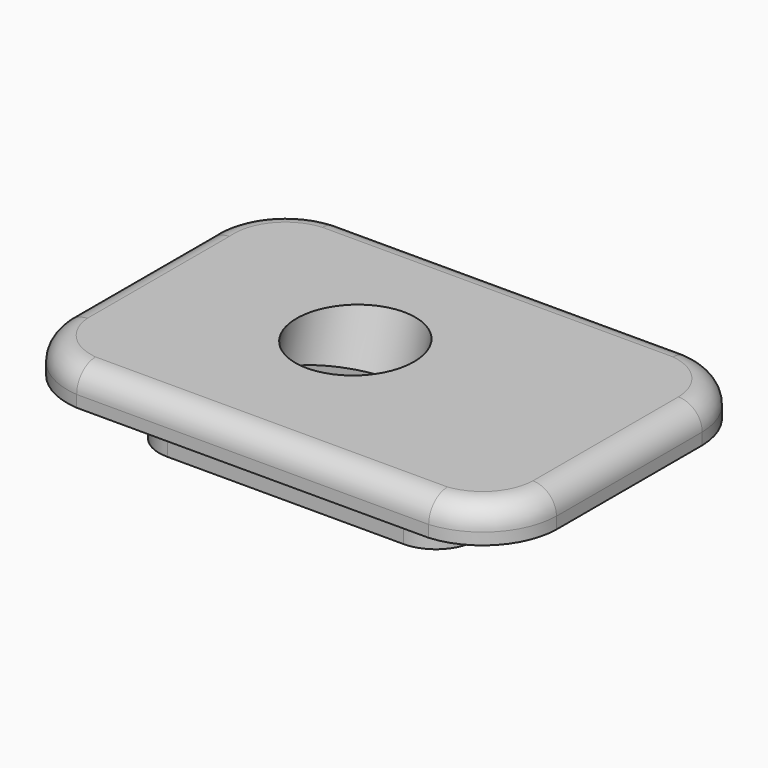
from build123d import *

# Parameters (mm, degrees)
PAD008_DEPTH    = 6
PAD009_DEPTH    = 8
FILLET002_R     = 4
SKETCH029_R     = 10
POCKET017_DEPTH = 13
SKETCH028_R     = 5
POCKET018_DEPTH = 28


with BuildPart() as part:
    # Sketch026 → Pad008 (new body)
    with BuildSketch(Plane.XY):
        with BuildLine():
            ThreePointArc((-41.745088, -16.267645), (-38.019176, -24.312586), (-29.956517, -28))
            Line((30.011514, -28), (-29.956517, -28))
            ThreePointArc((30.011514, -28), (38.300743, -24.027618), (41.782861, -15.520798))
            Line((41.782861, -15.520798), (41.782861, 15.521905))
            ThreePointArc((41.782861, 15.521905), (38.305508, 24.02367), (30.025364, 28))
            Line((-29.988894, 28), (30.025364, 28))
            ThreePointArc((-29.988894, 28), (-38.722289, 23.556252), (-41.745088, 14.235214))
            Line((-41.745088, 14.235214), (-41.745088, -16.267645))
        make_face()
    extrude(amount=PAD008_DEPTH)

    # Sketch027 → Pad009 (join)
    with BuildSketch(Plane.XY.offset(-7)):
        with BuildLine():
            Line((0, -21), (-20.122893, -21))
            ThreePointArc((-27, -14.122893), (-24.985742, -18.985742), (-20.122893, -21))
            Line((-27, 0), (-27, -14.122893))
            Line((-27, 0), (-27, 14.122893))
            ThreePointArc((-20.122893, 21), (-24.985742, 18.985742), (-27, 14.122893))
            Line((0, 21), (-20.122893, 21))
            Line((0, 21), (20.122893, 21))
            ThreePointArc((27, 14.122893), (24.985742, 18.985742), (20.122893, 21))
            Line((27, 0), (27, 14.122893))
            Line((27, 0), (27, -14.122893))
            ThreePointArc((20.122893, -21), (24.985742, -18.985742), (27, -14.122893))
            Line((0, -21), (20.122893, -21))
        make_face()
    extrude(amount=PAD009_DEPTH)

    # Fillet002
    fillet002_edges = [part.edges().sort_by_distance(p)[0] for p in [
        (0.027499, -28, 6),
        (-38.019176, -24.312586, 6),
        (-38.722289, 23.556252, 6),
        (-41.745088, -1.016216, 6),
        (0.018235, 28, 6),
        (38.305508, 24.02367, 6),
        (41.782861, 0.000553, 6),
        (38.300743, -24.027618, 6),
    ]]
    fillet(fillet002_edges, radius=FILLET002_R)

    # Sketch029 → Pocket017 (cut)
    with BuildSketch(Plane(origin=(-6, 3, 12), x_dir=(1, 0, 0), z_dir=(0, 0.258819, 0.965926))):
        Circle(SKETCH029_R)
    extrude(amount=-POCKET017_DEPTH, mode=Mode.SUBTRACT)

    # Sketch028 → Pocket018 (cut)
    with BuildSketch(Plane(origin=(-6, 3, 12), x_dir=(1, 0, 0), z_dir=(0, 0.258819, 0.965926))):
        Circle(SKETCH028_R)
    extrude(amount=-POCKET018_DEPTH, mode=Mode.SUBTRACT)


solid = part.part
